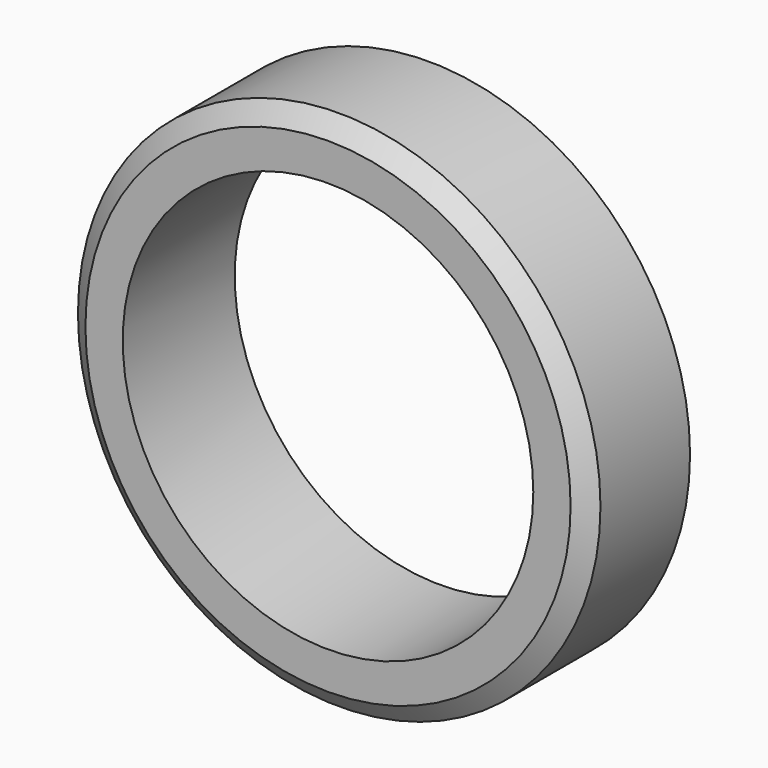
from build123d import *

# Parameters (mm, degrees)
F0_W = 2
F0_H = 7.5


with BuildPart() as f1:
    # F0 (on Top) → F1 (revolve)
    with BuildSketch(Plane.XY):
        Polygon((13, 7.5), (13, 0), (14, 0.75), (14, 6.75), align=None)
        with Locations((12, 3.75)):
            Rectangle(F0_W, F0_H)
    revolve(axis=Axis((0, 7.130001, 0), (0, 1, 0)))


solid = f1.part
